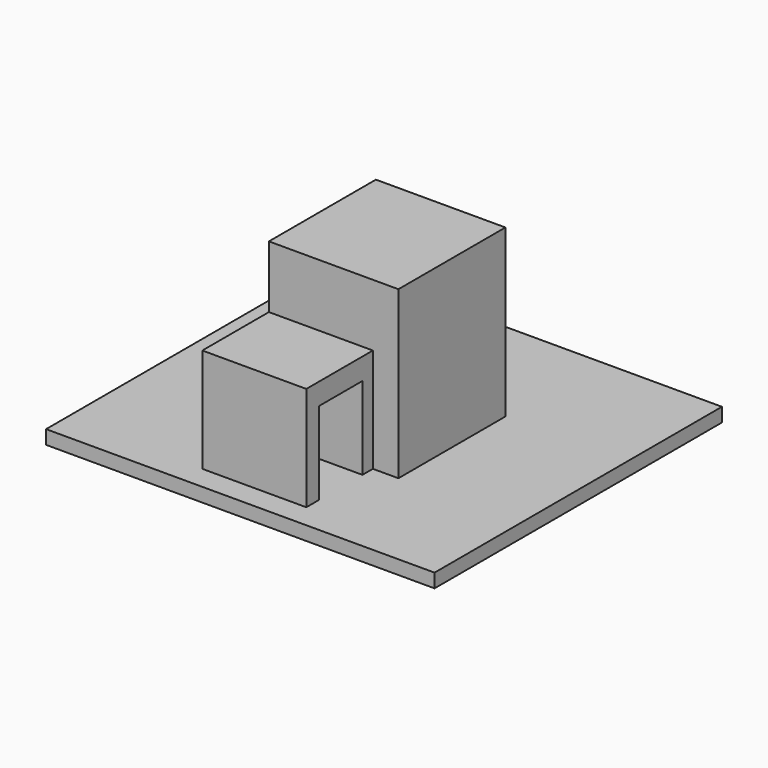
from build123d import *

# Parameters (mm, degrees)
F0_W     = 177.861019969
F0_H     = 164.4679009914
F1_DEPTH = 6.35
F2_W     = 59.2979416251
F2_H     = 61.2313710153
F3_DEPTH = 76.2
F4_W     = 47.6095601916
F4_H     = 47.6991081774
F5_DEPTH = 38.1
F6_W     = 24.9475054443
F6_H     = 37.8527449608
F7_DEPTH = 38.1


with BuildPart() as f1:
    # F0 (on Top) → F1 (new body)
    with BuildSketch(Plane.XY):
        with Locations((-0.550635159, -1.3211369514)):
            Rectangle(F0_W, F0_H)
    extrude(amount=F1_DEPTH)

    # F2 (on face) → F3 (join)
    with BuildSketch(Plane.XY.offset(6.35)):
        with Locations((2.9982812703, -3.9570573717)):
            Rectangle(F2_W, F2_H)
    extrude(amount=F3_DEPTH)

    # F4 (on face) → F5 (join)
    with BuildSketch(Plane.XZ.offset(34.5727428794)):
        with Locations((-2.8459094465, 30.1995540887)):
            Rectangle(F4_W, F4_H)
    extrude(amount=F5_DEPTH)

    # F6 (on face) → F7 (cut)
    with BuildSketch(Plane.YZ.offset(20.9588706493)):
        with Locations((-53.0296508223, 25.2763724804)):
            Rectangle(F6_W, F6_H)
    extrude(amount=-F7_DEPTH, mode=Mode.SUBTRACT)


solid = f1.part
